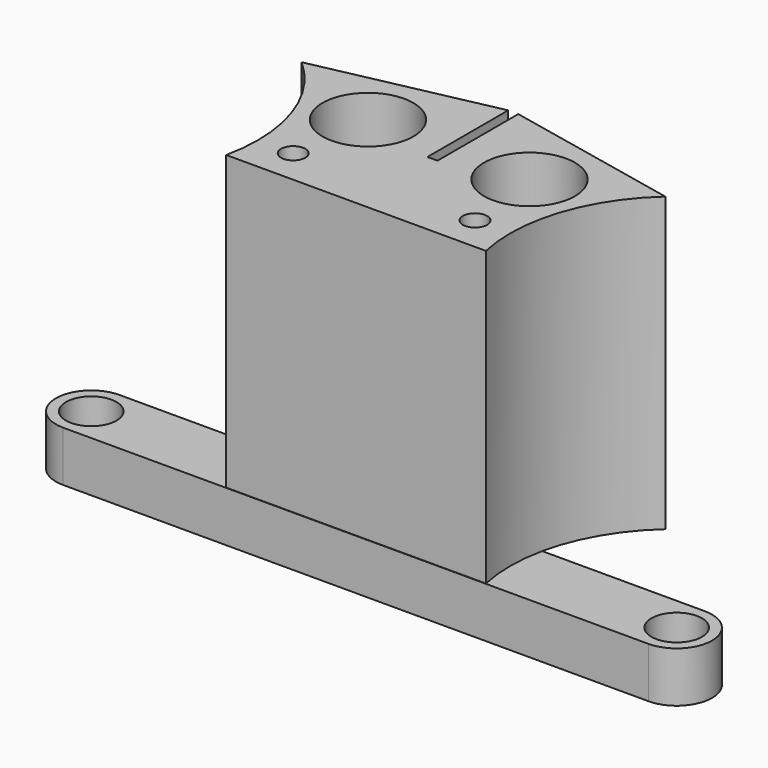
from build123d import *

# Parameters (mm, degrees)
SKETCH_R        = 2.5
PAD_DEPTH       = 5
PAD001_DEPTH    = 29
SKETCH002_R     = 1.2
POCKET_DEPTH    = 34.001
SKETCH004_R     = 4.5
POCKET002_DEPTH = 34.001


with BuildPart() as part:
    # Sketch → Pad (new body)
    with BuildSketch(Plane.XY):
        with BuildLine():
            ThreePointArc((0, 3.5), (-3.5, 0), (0, -3.5))
            Line((57.98, -3.5), (0, -3.5))
            ThreePointArc((57.98, -3.5), (61.48, 0), (57.98, 3.5))
            Line((0, 3.5), (57.98, 3.5))
        make_face()
        Circle(SKETCH_R, mode=Mode.SUBTRACT)
        with Locations((57.98, 0)):
            Circle(SKETCH_R, mode=Mode.SUBTRACT)
    extrude(amount=PAD_DEPTH)

    # Sketch001 (on Face8 of Pad) → Pad001 (join)
    with BuildSketch(Plane.XY.offset(5)):
        with BuildLine():
            Line((29.489935, 16), (29.489935, 6))
            Line((28.489935, 6), (29.489935, 6))
            Line((28.489935, 6), (28.489935, 15.99995))
            Line((28.489935, 15.99995), (10.983499, 12.313113))
            ThreePointArc((16.133505, -3.458326), (15.684946, 5.121763), (10.983499, 12.313113))
            Line((16.133505, -3.458326), (41.846495, -3.458326))
            ThreePointArc((46.996509, 12.31312), (42.295055, 5.121768), (41.846495, -3.458326))
            Line((46.996509, 12.31312), (29.489935, 16))
        make_face()
    extrude(amount=PAD001_DEPTH)

    # Sketch002 (on Face18 of Pad001) → Pocket (cut, through all)
    with BuildSketch(Plane.XY.offset(34)):
        with Locations((20, 0)):
            Circle(SKETCH002_R)
        with Locations((38, 0)):
            Circle(SKETCH002_R)
    extrude(amount=-POCKET_DEPTH, mode=Mode.SUBTRACT)

    # Sketch004 → Pocket002 (cut, through all)
    with BuildSketch(Plane.XY.offset(34)):
        with Locations((21, 8)):
            Circle(SKETCH004_R)
        with Locations((37, 8)):
            Circle(SKETCH004_R)
    extrude(amount=-POCKET002_DEPTH, mode=Mode.SUBTRACT)


solid = part.part
